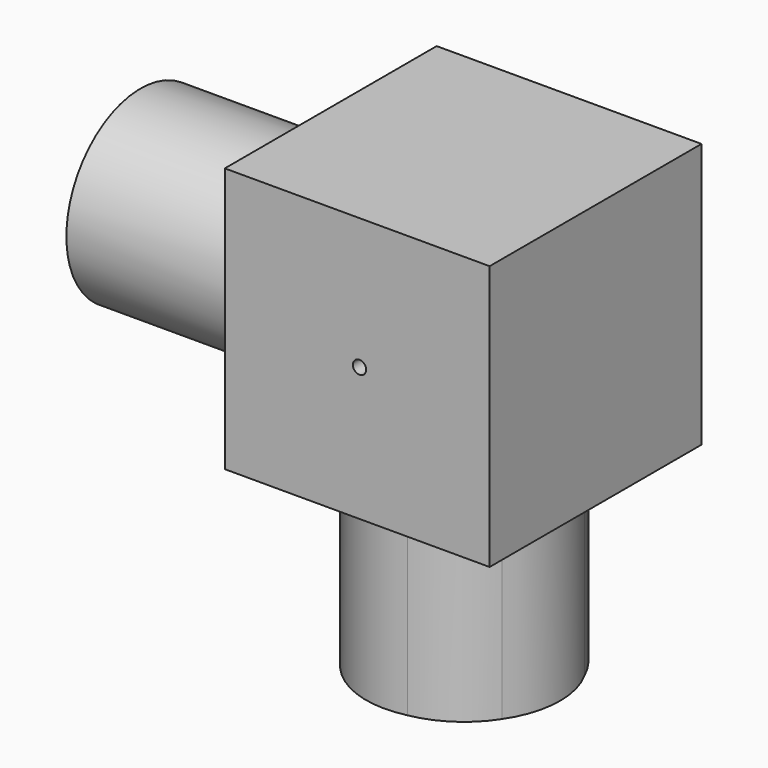
from build123d import *

# Parameters (mm, degrees)
F0_W      = 100
F0_H      = 100
F1_DEPTH  = 100
F2_R      = 35
F3_DEPTH  = 70
F4_R      = 35
F5_DEPTH  = 70
F6_R      = 35
F7_DEPTH  = 70
F8_R      = 35
F9_DEPTH  = 70
F11_R     = 35
F12_DEPTH = 70
F13_R     = 35
F14_DEPTH = 25
F10_R     = 35
F15_DEPTH = 70
F17_D     = 5


with BuildPart() as f1:
    # F0 (on Front) → F1 (new body)
    with BuildSketch(Plane.XZ):
        with Locations((50, 50)):
            Rectangle(F0_W, F0_H)
    extrude(amount=F1_DEPTH)

    # F2 (on Top) → F3 (join)
    with BuildSketch(Plane.XY):
        with Locations((48.346177, -50.003812)):
            Circle(F2_R)
    extrude(amount=-F3_DEPTH)

    # F4 (on Top) → F5 (join)
    with BuildSketch(Plane.XY):
        with Locations((49.174994, -45.859754)):
            Circle(F4_R)
    extrude(amount=-F5_DEPTH)

    # F6 (on Top) → F7 (join)
    with BuildSketch(Plane.XY):
        with Locations((48.553377, -49.589396)):
            Circle(F6_R)
    extrude(amount=-F7_DEPTH)

    # F8 (on Top) → F9 (join)
    with BuildSketch(Plane.XY):
        with Locations((50.625414, -48.760593)):
            Circle(F8_R)
    extrude(amount=-F9_DEPTH)

    # F11 (on Top) → F12 (join)
    with BuildSketch(Plane.XY):
        with Locations((50.038069, -49.650535)):
            Circle(F11_R)
    extrude(amount=-F12_DEPTH)

    # F13 (on face) → F14 (join)
    with BuildSketch(Plane.XY.offset(100)):
        with Locations((49.716454, -51.418651)):
            Circle(F13_R)
    extrude(amount=-F14_DEPTH)

    # F10 (on Right) → F15 (join)
    with BuildSketch(Plane.YZ):
        with Locations((-52.281633, 49.393684)):
            Circle(F10_R)
    extrude(amount=-F15_DEPTH)

    # F17 (through all)
    with Locations(Plane.XZ.offset(100)):
        with Locations((50.875958, 50.418209)):
            Hole(F17_D / 2)


solid = f1.part
